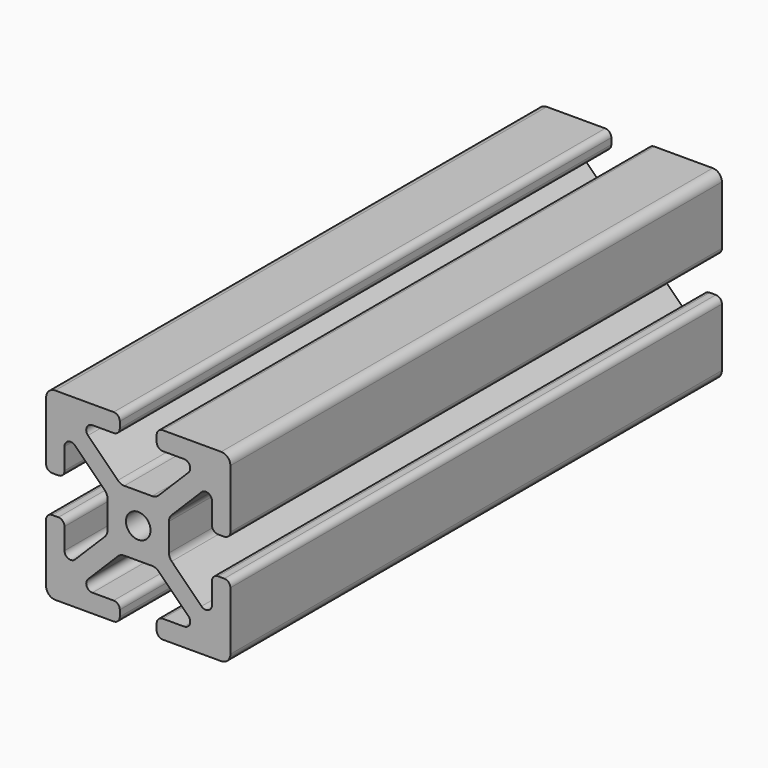
from build123d import *

# Parameters (mm, degrees)
F0_R     = 2
F1_DEPTH = 100
F2_R     = 1.5
F3_DEPTH = 10


with BuildPart() as f1:
    # F0 (on Front) → F1 (new body)
    with BuildSketch(Plane.XZ):
        with BuildLine():
            ThreePointArc((15, 13.5), (14.56066, 14.56066), (13.5, 15))
            Line((13.5, 15), (4, 15))
            ThreePointArc((4, 15), (3.292893, 14.707107), (3, 14))
            Line((3, 14), (3, 13))
            ThreePointArc((3, 13), (3.292893, 12.292893), (4, 12))
            Line((4, 12), (7.464466, 12))
            ThreePointArc((7.464466, 12), (8.388346, 11.382683), (8.171573, 10.292893))
            Line((8.171573, 10.292893), (3.318019, 5.43934))
            ThreePointArc((3.318019, 5.43934), (2.831384, 5.114181), (2.257359, 5))
            Line((2.257359, 5), (-2.257359, 5))
            ThreePointArc((-2.257359, 5), (-2.831384, 5.114181), (-3.318019, 5.43934))
            Line((-3.318019, 5.43934), (-8.171573, 10.292893))
            ThreePointArc((-8.171573, 10.292893), (-8.388346, 11.382683), (-7.464466, 12))
            Line((-7.464466, 12), (-4, 12))
            ThreePointArc((-4, 12), (-3.292893, 12.292893), (-3, 13))
            Line((-3, 13), (-3, 14))
            ThreePointArc((-3, 14), (-3.292893, 14.707107), (-4, 15))
            Line((-4, 15), (-13.5, 15))
            ThreePointArc((-13.5, 15), (-14.56066, 14.56066), (-15, 13.5))
            Line((-15, 13.5), (-15, 4))
            ThreePointArc((-15, 4), (-14.707107, 3.292893), (-14, 3))
            Line((-14, 3), (-13, 3))
            ThreePointArc((-13, 3), (-12.292893, 3.292893), (-12, 4))
            Line((-12, 4), (-12, 7.464466))
            ThreePointArc((-12, 7.464466), (-11.382683, 8.388346), (-10.292893, 8.171573))
            Line((-10.292893, 8.171573), (-5.43934, 3.318019))
            ThreePointArc((-5.43934, 3.318019), (-5.114181, 2.831384), (-5, 2.257359))
            Line((-5, 2.257359), (-5, -2.257359))
            ThreePointArc((-5, -2.257359), (-5.114181, -2.831384), (-5.43934, -3.318019))
            Line((-5.43934, -3.318019), (-10.292893, -8.171573))
            ThreePointArc((-10.292893, -8.171573), (-11.382683, -8.388346), (-12, -7.464466))
            Line((-12, -7.464466), (-12, -4))
            ThreePointArc((-12, -4), (-12.292893, -3.292893), (-13, -3))
            Line((-13, -3), (-14, -3))
            ThreePointArc((-14, -3), (-14.707107, -3.292893), (-15, -4))
            Line((-15, -4), (-15, -13.5))
            ThreePointArc((-15, -13.5), (-14.56066, -14.56066), (-13.5, -15))
            Line((-13.5, -15), (-4, -15))
            ThreePointArc((-4, -15), (-3.292893, -14.707107), (-3, -14))
            Line((-3, -14), (-3, -13))
            ThreePointArc((-3, -13), (-3.292893, -12.292893), (-4, -12))
            Line((-4, -12), (-7.464466, -12))
            ThreePointArc((-7.464466, -12), (-8.388346, -11.382683), (-8.171573, -10.292893))
            Line((-8.171573, -10.292893), (-3.318019, -5.43934))
            ThreePointArc((-3.318019, -5.43934), (-2.831384, -5.114181), (-2.257359, -5))
            Line((-2.257359, -5), (2.257359, -5))
            ThreePointArc((2.257359, -5), (2.831384, -5.114181), (3.318019, -5.43934))
            Line((3.318019, -5.43934), (8.171573, -10.292893))
            ThreePointArc((8.171573, -10.292893), (8.388346, -11.382683), (7.464466, -12))
            Line((7.464466, -12), (4, -12))
            ThreePointArc((4, -12), (3.292893, -12.292893), (3, -13))
            Line((3, -13), (3, -14))
            ThreePointArc((3, -14), (3.292893, -14.707107), (4, -15))
            Line((4, -15), (13.5, -15))
            ThreePointArc((13.5, -15), (14.56066, -14.56066), (15, -13.5))
            Line((15, -13.5), (15, -4))
            ThreePointArc((15, -4), (14.707107, -3.292893), (14, -3))
            Line((14, -3), (13, -3))
            ThreePointArc((13, -3), (12.292893, -3.292893), (12, -4))
            Line((12, -4), (12, -7.464466))
            ThreePointArc((12, -7.464466), (11.382683, -8.388346), (10.292893, -8.171573))
            Line((10.292893, -8.171573), (5.43934, -3.318019))
            ThreePointArc((5.43934, -3.318019), (5.114181, -2.831384), (5, -2.257359))
            Line((5, -2.257359), (5, 2.257359))
            ThreePointArc((5, 2.257359), (5.114181, 2.831384), (5.43934, 3.318019))
            Line((5.43934, 3.318019), (10.292893, 8.171573))
            ThreePointArc((10.292893, 8.171573), (11.382683, 8.388346), (12, 7.464466))
            Line((12, 7.464466), (12, 4))
            ThreePointArc((12, 4), (12.292893, 3.292893), (13, 3))
            Line((13, 3), (14, 3))
            ThreePointArc((14, 3), (14.707107, 3.292893), (15, 4))
            Line((15, 4), (15, 13.5))
        make_face()
        Circle(F0_R, mode=Mode.SUBTRACT)
    extrude(amount=-F1_DEPTH)

    # F2 (on face) → F3 (cut)
    with BuildSketch(Plane.XY.offset(5)):
        with Locations((0, 50)):
            Circle(F2_R)
    extrude(amount=-F3_DEPTH, mode=Mode.SUBTRACT)


solid = f1.part
